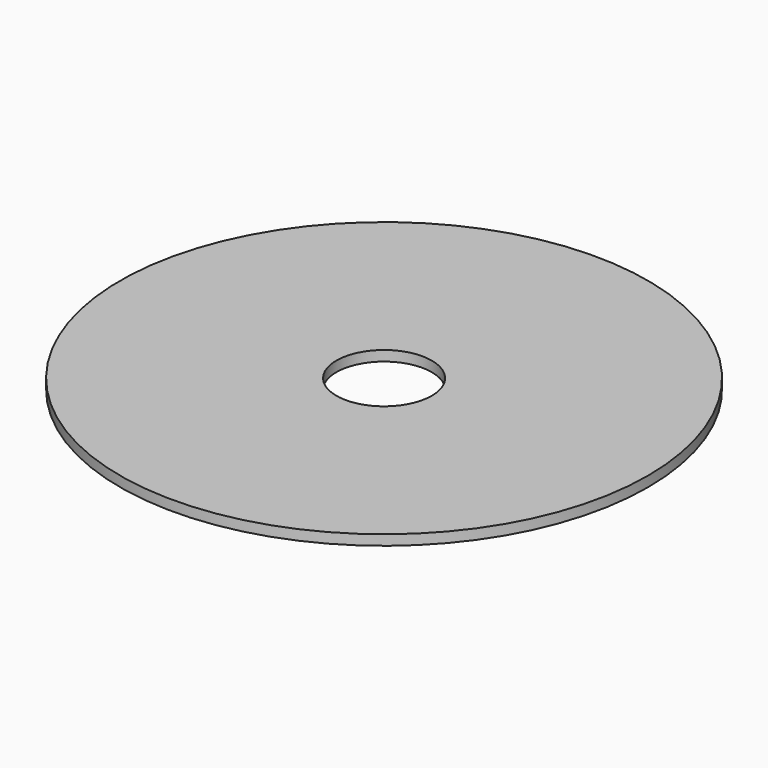
from build123d import *

# Parameters (mm, degrees)
CYLINDER017_R     = 14
CYLINDER017_DEPTH = 3
CYLINDER_R        = 77.5
CYLINDER_DEPTH    = 3


with BuildPart() as cylinder001:
    # Cylinder017 → Cylinder017 (new body)
    with BuildSketch(Plane.XY):
        Circle(CYLINDER017_R)
    extrude(amount=CYLINDER017_DEPTH)


with BuildPart() as cut:
    # Cylinder → Cylinder (new body)
    with BuildSketch(Plane.XY):
        Circle(CYLINDER_R)
    extrude(amount=CYLINDER_DEPTH)

    # Cut: cut Cylinder001
    add(cylinder001.part, mode=Mode.SUBTRACT)


solid = cut.part
